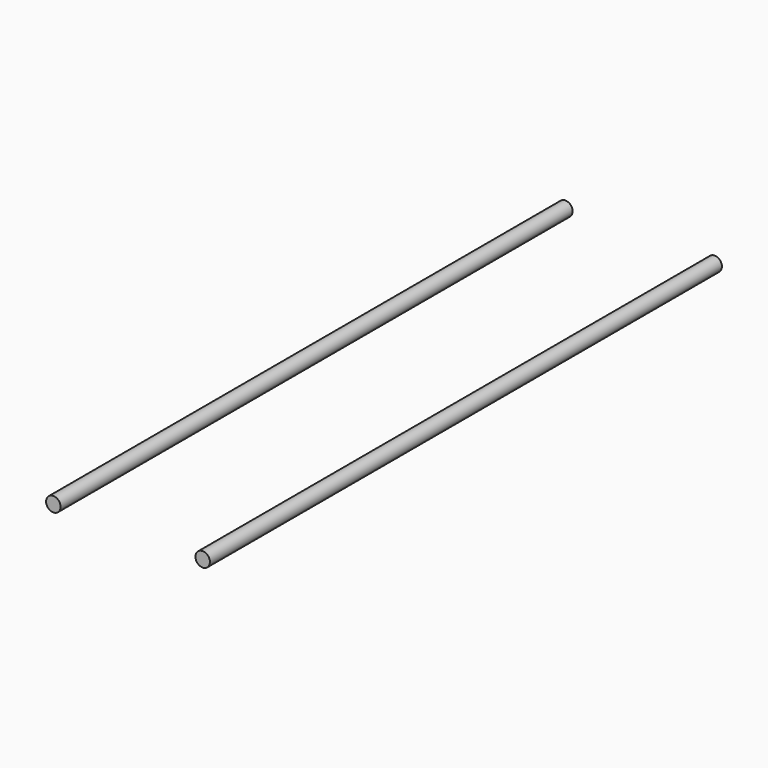
from build123d import *

# Parameters (mm, degrees)
CYLINDER009_R             = 1.7
CYLINDER009_DEPTH         = 150
CYLINDER_R                = 1.7
CYLINDER_DEPTH            = 150
FUSION002_PLACEMENT_ANGLE = 180


with BuildPart() as cilindro009:
    # Cylinder009 → Cylinder009 (new body)
    with BuildSketch(Plane(origin=(-21.5, 50, 7), x_dir=(1, 0, 0), z_dir=(0, -1, 0))):
        Circle(CYLINDER009_R)
    extrude(amount=CYLINDER009_DEPTH)


with BuildPart() as fusion002:
    # Cylinder → Cylinder (new body)
    with BuildSketch(Plane(origin=(13.5, 50, 7), x_dir=(1, 0, 0), z_dir=(0, -1, 0))):
        Circle(CYLINDER_R)
    extrude(amount=CYLINDER_DEPTH)

    # Fusion002: union Cilindro009
    add(cilindro009.part)


with BuildPart() as fusion002_1:
    # Fusion002 placement: moved
    add(fusion002.part.moved(Location((-8, -24.99, 0))).rotate(Axis((-8, -24.99, 0), (0, 0, 1)), FUSION002_PLACEMENT_ANGLE))


solid = fusion002_1.part
